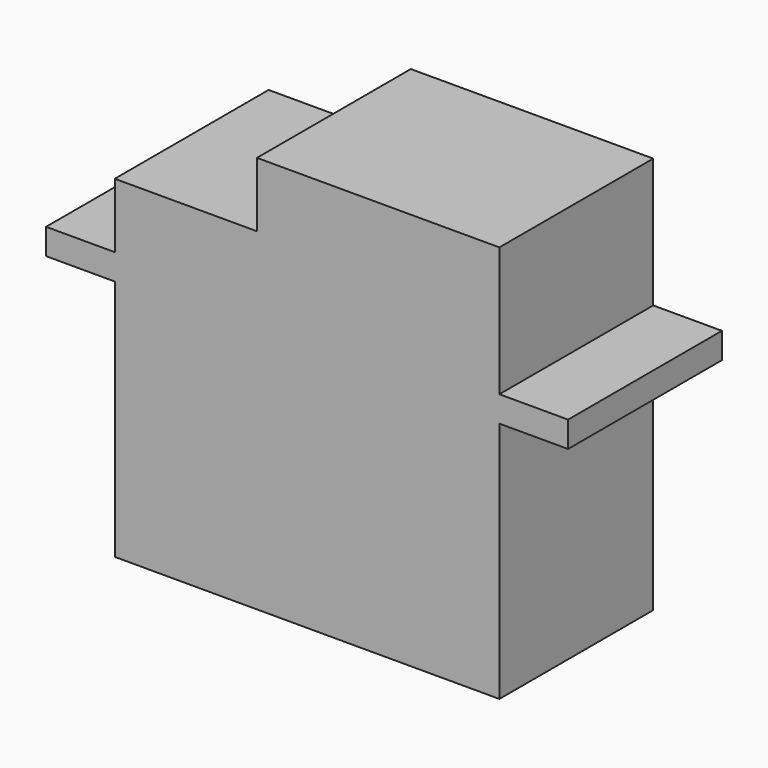
from build123d import *

# Parameters (mm, degrees)
F0_W     = 23.8
F0_H     = 15
F0_W_2   = 4.25
F0_H_2   = 1.6
F0_W_3   = 15
F0_H_3   = 4
F1_DEPTH = 11.9


with BuildPart() as f1:
    # F0 (on Front) → F1 (new body)
    with BuildSketch(Plane.XZ):
        with Locations((11.9, -7.5)):
            Rectangle(F0_W, F0_H)
        Polygon((8.8, 5.6), (0, 5.6), (0, 1.6), (23.8, 1.6), (23.8, 5.6), align=None)
        with Locations((-2.125, 0.8)):
            Rectangle(F0_W_2, F0_H_2)
        with Locations((11.9, 0.8)):
            Rectangle(F0_W, F0_H_2)
        with Locations((25.925, 0.8)):
            Rectangle(F0_W_2, F0_H_2)
        with Locations((16.3, 7.6)):
            Rectangle(F0_W_3, F0_H_3)
    extrude(amount=F1_DEPTH)


solid = f1.part
